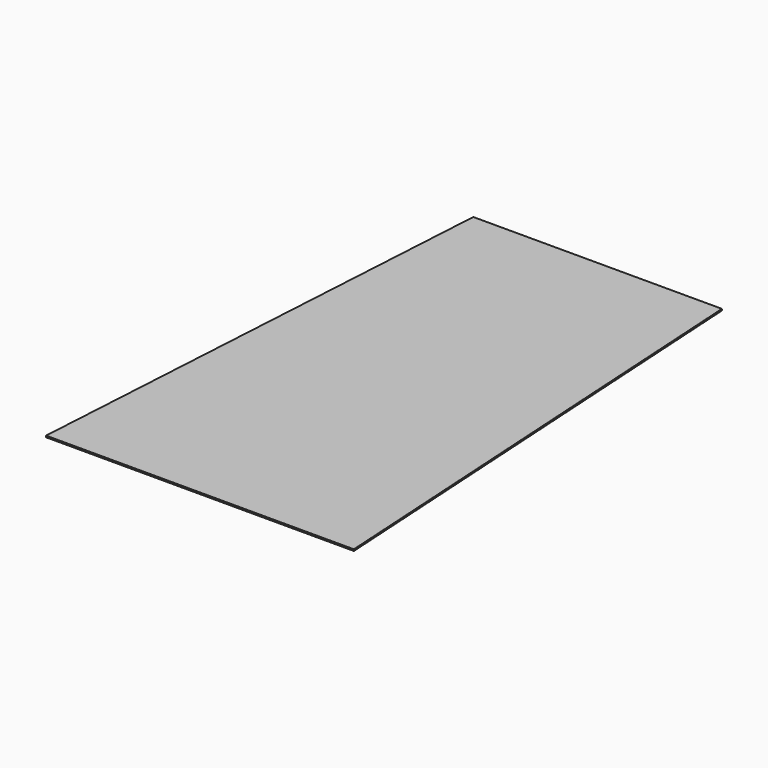
from build123d import *

# Parameters (mm, degrees)
F1_DEPTH = 1.524
F3_DEPTH = 1.525


with BuildPart() as f1:
    # F0 (on Top) → F1 (new body)
    with BuildSketch(Plane.XY):
        Polygon((31.75, 533.4), (0, 0), (342.9, 0), (311.15, 533.4), align=None)
    extrude(amount=F1_DEPTH)

    # F2 (on face) → F3 (cut, through all)
    with BuildSketch(Plane.XY.offset(1.524)):
        Polygon((0, 0), (19.083718, 0), (48.376873, 492.125), (294.523127, 492.125), (323.816282, 0), (342.9, 0), (311.15, 533.4), (31.75, 533.4), align=None)
    extrude(amount=-F3_DEPTH, mode=Mode.SUBTRACT)


solid = f1.part
